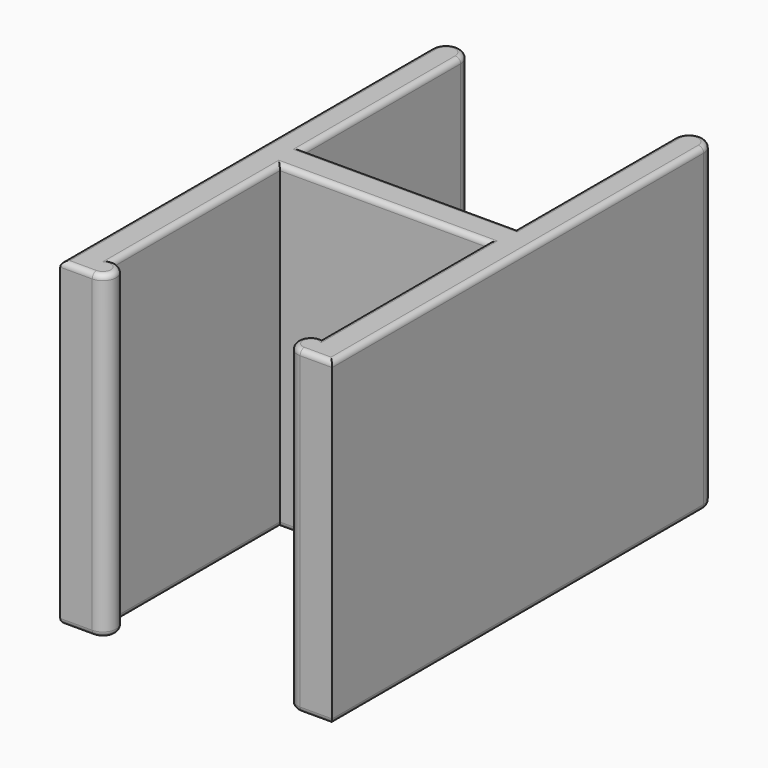
from build123d import *

# Parameters (mm, degrees)
F1_DEPTH = 30
F2_R     = 0.5


with BuildPart() as f1:
    # F0 (on Top) → F1 (new body)
    with BuildSketch(Plane.XY):
        with BuildLine():
            Line((0, 30.204545), (0, 0))
            Line((0, 0), (0, -13.295455))
            Line((0, -13.295455), (3, -13.295455))
            Line((3, -13.295455), (3, -10.795455))
            Line((3, -10.795455), (3, 8.704545))
            Line((3, 8.704545), (22.5, 8.704545))
            Line((22.5, 8.704545), (22.5, -10.795455))
            Line((22.5, -10.795455), (22.5, -13.295455))
            Line((22.5, -13.295455), (25.5, -13.295455))
            Line((25.5, -13.295455), (25.5, 30.258762))
            ThreePointArc((25.5, 30.258762), (24.123931, 31.63483), (22.747863, 30.258762))
            Line((22.747863, 30.258762), (22.747863, 11.704545))
            Line((22.747863, 11.704545), (2.747863, 11.704545))
            Line((2.747863, 11.704545), (2.747863, 30.204545))
            ThreePointArc((2.747863, 30.204545), (1.373931, 31.578476), (0, 30.204545))
        make_face()
        with BuildLine():
            Line((3, -10.795455), (3, -13.295455))
            ThreePointArc((3, -13.295455), (4.25, -12.045455), (3, -10.795455))
        make_face()
        with BuildLine():
            Line((22.5, -13.295455), (22.5, -10.795455))
            ThreePointArc((22.5, -10.795455), (21.25, -12.045455), (22.5, -13.295455))
        make_face()
    extrude(amount=F1_DEPTH)

    # F2
    f2_edges = [f1.edges().sort_by_distance(p)[0] for p in [
        (0, 8.454545, 30),
        (3, -1.045455, 30),
        (4.25, -12.045455, 30),
        (12.747863, 11.704545, 30),
        (2.747863, 20.954545, 30),
        (1.373931, 31.578476, 30),
        (1.5, -13.295455, 30),
        (12.75, 8.704545, 30),
        (22.5, -1.045455, 30),
        (21.25, -12.045455, 30),
        (24, -13.295455, 30),
        (25.5, 8.481653, 30),
        (24.123931, 31.63483, 30),
        (22.747863, 20.981653, 30),
        (12.747863, 11.704545, 0),
        (2.747863, 20.954545, 0),
        (1.373931, 31.578476, 0),
        (0, 8.454545, 0),
        (1.5, -13.295455, 0),
        (4.25, -12.045455, 0),
        (3, -1.045455, 0),
        (12.75, 8.704545, 0),
        (22.5, -1.045455, 0),
        (21.25, -12.045455, 0),
        (24, -13.295455, 0),
        (25.5, 8.481653, 0),
        (24.123931, 31.63483, 0),
        (22.747863, 20.981653, 0),
    ]]
    fillet(f2_edges, radius=F2_R)


solid = f1.part
